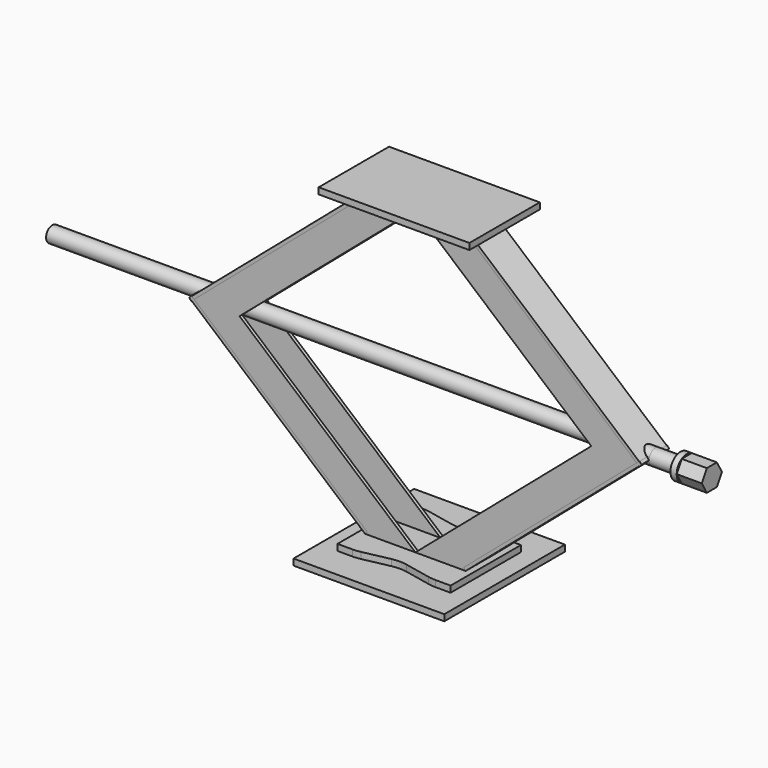
from build123d import *

# Parameters (mm, degrees)
F2_DEPTH  = 3.175
F4_W      = 234.1764292152
F4_H      = 34.925
F5_DEPTH  = 3.175
F8_W      = 152.4
F8_H      = 88.9
F9_DEPTH  = 6.35
F11_DEPTH = 6.35
F13_R     = 7.9375
F14_DEPTH = 609.6
F15_R     = 7.9375
F16_DEPTH = 25.4
F17_R     = 12.7
F18_DEPTH = 6.35
F20_DEPTH = 25.4
F21_W     = 152.4
F21_H     = 152.4
F22_DEPTH = 6.35


with BuildPart() as f2:
    # F1 (on offset) → F2 (new body)
    with BuildSketch(Plane.XZ.offset(14.2875)):
        Polygon((-177.8, 0), (0, 152.4), (-50.8, 152.4), (-228.6, 0), (-50.8, -152.4), (0, -152.4), align=None)
    extrude(amount=F2_DEPTH)


with BuildPart() as f2b:
    # F1 (on offset) → F2, piece 2 (new body)
    with BuildSketch(Plane.XZ.offset(14.2875)):
        Polygon((50.8, 152.4), (0, 152.4), (177.8, 0), (0, -152.4), (50.8, -152.4), (228.6, 0), align=None)
    extrude(amount=F2_DEPTH)


with BuildPart() as f3_1:
    # F3: instance of F2
    add(f2.part.mirror(Plane.XZ))


with BuildPart() as f3_2:
    # F3: instance of F2b
    add(f2b.part.mirror(Plane.XZ))


with BuildPart() as f5:
    # F4 (on face) → F5 (new body)
    with BuildSketch(Plane(origin=(-96.8188235294, 0, 112.9552941176), x_dir=(0.7592566024, 0, 0.6507913735), z_dir=(-0.6507913735, 0, 0.7592566024))):
        with Locations((-56.4778446931, 0)):
            Rectangle(F4_W, F4_H)
    extrude(amount=-F5_DEPTH)


with BuildPart() as f6_1:
    # F6: instance of F5
    add(f5.part.mirror(Plane.XY))


with BuildPart() as f7_1:
    # F7: instance of F5
    add(f5.part.mirror(Plane.YZ))


with BuildPart() as f7_2:
    # F7: instance of F6_1
    add(f6_1.part.mirror(Plane.YZ))


with BuildPart() as f9:
    # F8 (on face) → F9 (new body)
    with BuildSketch(Plane.XY.offset(152.4)):
        Rectangle(F8_W, F8_H)
    extrude(amount=F9_DEPTH)


with BuildPart() as f11:
    # F10 (on face) → F11 (new body)
    with BuildSketch(Plane(origin=(0, 0, -152.4), x_dir=(1, 0, 0), z_dir=(0, 0, -1))):
        with BuildLine():
            Line((-42.0265962433, 44.45), (-57.15, 44.45))
            Line((-57.15, 44.45), (-57.15, -44.45))
            Line((-57.15, -44.45), (-42.0265962433, -44.45))
            ThreePointArc((-42.0265962433, -44.45), (-38.1206883524, -44.2492596702), (-34.2559391616, -43.649153992))
            Line((-34.2559391616, -43.649153992), (-7.7706570817, -38.131386892))
            ThreePointArc((-7.7706570817, -38.131386892), (0, -37.330540884), (7.7706570817, -38.131386892))
            Line((7.7706570817, -38.131386892), (34.2559391616, -43.649153992))
            ThreePointArc((34.2559391616, -43.649153992), (38.1206883524, -44.2492596702), (42.0265962433, -44.45))
            Line((42.0265962433, -44.45), (57.15, -44.45))
            Line((57.15, -44.45), (57.15, 44.45))
            Line((57.15, 44.45), (42.0265962433, 44.45))
            ThreePointArc((42.0265962433, 44.45), (38.1206883524, 44.2492596702), (34.2559391616, 43.649153992))
            Line((34.2559391616, 43.649153992), (7.7706570817, 38.131386892))
            ThreePointArc((7.7706570817, 38.131386892), (0, 37.330540884), (-7.7706570817, 38.131386892))
            Line((-7.7706570817, 38.131386892), (-34.2559391616, 43.649153992))
            ThreePointArc((-34.2559391616, 43.649153992), (-38.1206883524, 44.2492596702), (-42.0265962433, 44.45))
        make_face()
    extrude(amount=F11_DEPTH)

    # F21 (on face) → F22 (join)
    with BuildSketch(Plane(origin=(0, 0, -158.75), x_dir=(1, 0, 0), z_dir=(0, 0, -1))):
        Rectangle(F21_W, F21_H)
    extrude(amount=F22_DEPTH)


with BuildPart() as f14:
    # F13 (on offset) → F14 (new body)
    with BuildSketch(Plane.YZ.offset(228.6)):
        Circle(F13_R)
    extrude(amount=-F14_DEPTH)

    # F15 (on face) → F16 (join)
    with BuildSketch(Plane.YZ.offset(228.6)):
        Circle(F15_R)
    extrude(amount=F16_DEPTH)

    # F17 (on face) → F18 (join)
    with BuildSketch(Plane.YZ.offset(254)):
        Circle(F17_R)
    extrude(amount=F18_DEPTH)

    # F19 (on face) → F20 (join)
    with BuildSketch(Plane.YZ.offset(260.35)):
        Polygon((12.7, 0), (6.35, 10.9985226281), (-6.35, 10.9985226281), (-12.7, 0), (-6.35, -10.9985226281), (6.35, -10.9985226281), align=None)
    extrude(amount=F20_DEPTH)


solid = Compound([f2.part, f2b.part, f3_1.part, f3_2.part, f5.part, f6_1.part, f7_1.part, f7_2.part, f9.part, f11.part, f14.part])
